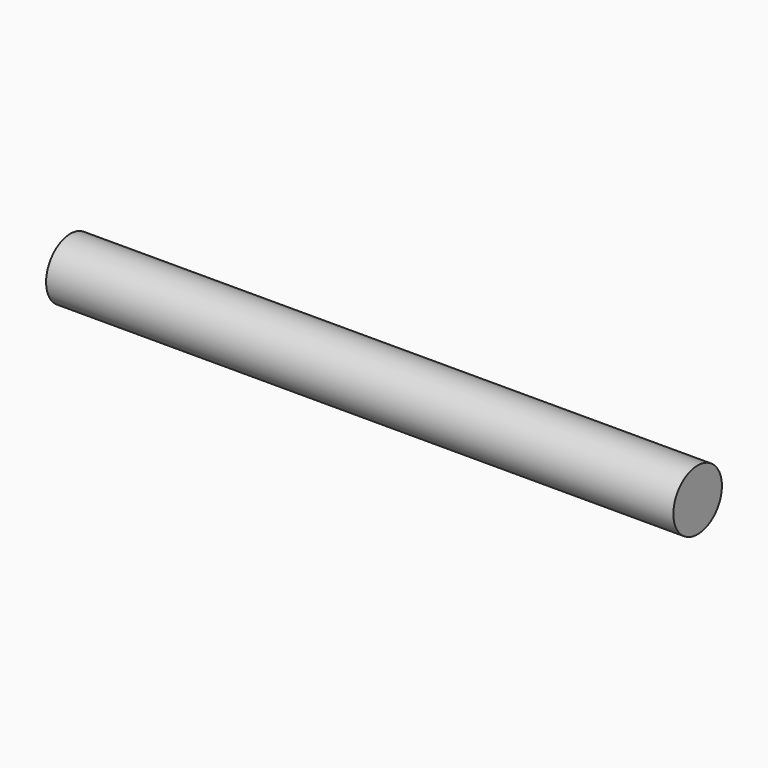
from build123d import *

# Parameters (mm, degrees)
F0_W = 62
F0_H = 3


with BuildPart() as f1:
    # F0 (on Front) → F1 (revolve)
    with BuildSketch(Plane.XZ):
        Rectangle(F0_W, F0_H)
    revolve(axis=Axis((0, 0, -1.5), (1, 0, 0)))


solid = f1.part
